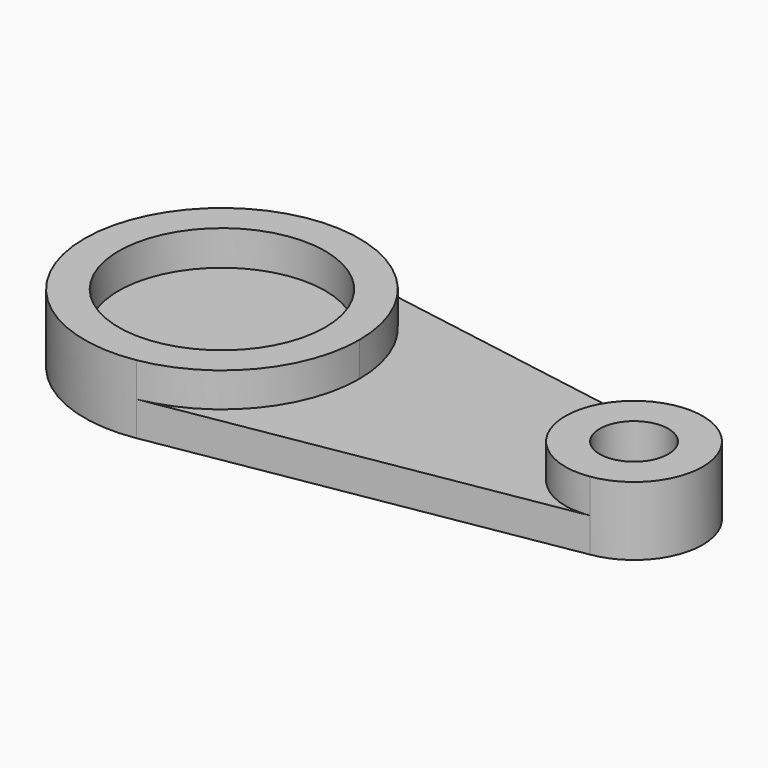
from build123d import *

# Parameters (mm, degrees)
F1_DEPTH = 3.175
F3_DEPTH = 3.175
F4_R     = 9.5504
F5_DEPTH = 3.2258
F6_R     = 3.175
F7_DEPTH = 6.351


with BuildPart() as f1:
    # F0 (on Top) → F1 (new body)
    with BuildSketch(Plane.XY):
        with BuildLine():
            ThreePointArc((2.117, -12.522313), (9.699894, -8.197686), (12.7, 0))
            ThreePointArc((12.7, 0), (9.699894, 8.197686), (2.117, 12.522313))
            ThreePointArc((2.117, 12.522313), (-12.7, 0), (2.117, -12.522313))
        make_face()
        with BuildLine():
            ThreePointArc((2.117, 12.522313), (9.699894, 8.197686), (12.7, 0))
            ThreePointArc((12.7, 0), (9.699894, -8.197686), (2.117, -12.522313))
            Line((2.117, -12.522313), (39.047233, -6.278953))
            ThreePointArc((39.047233, -6.278953), (31.75, 0), (39.047233, 6.278953))
            Line((39.047233, 6.278953), (2.117, 12.522313))
        make_face()
        with BuildLine():
            ThreePointArc((44.45, 0), (42.913389, 4.141713), (39.047233, 6.278953))
            ThreePointArc((39.047233, 6.278953), (31.75, 0), (39.047233, -6.278953))
            ThreePointArc((39.047233, -6.278953), (42.913389, -4.141713), (44.45, 0))
        make_face()
    extrude(amount=F1_DEPTH)

    # F2 (on face) → F3 (join)
    with BuildSketch(Plane.XY.offset(3.175)):
        with BuildLine():
            ThreePointArc((39.047233, 6.278953), (31.75, 0), (39.047233, -6.278953))
            ThreePointArc((39.047233, -6.278953), (42.913389, -4.141713), (44.45, 0))
            ThreePointArc((44.45, 0), (42.913389, 4.141713), (39.047233, 6.278953))
        make_face()
        with BuildLine():
            ThreePointArc((12.7, 0), (9.699894, 8.197686), (2.117, 12.522313))
            ThreePointArc((2.117, 12.522313), (-12.7, 0), (2.117, -12.522313))
            ThreePointArc((2.117, -12.522313), (9.699894, -8.197686), (12.7, 0))
        make_face()
    extrude(amount=F3_DEPTH)

    # F4 (on face) → F5 (cut)
    with BuildSketch(Plane.XY.offset(6.35)):
        Circle(F4_R)
    extrude(amount=-F5_DEPTH, mode=Mode.SUBTRACT)

    # F6 (on face) → F7 (cut, through all)
    with BuildSketch(Plane.XY.offset(6.35)):
        with Locations((38.1, 0)):
            Circle(F6_R)
    extrude(amount=-F7_DEPTH, mode=Mode.SUBTRACT)


solid = f1.part
